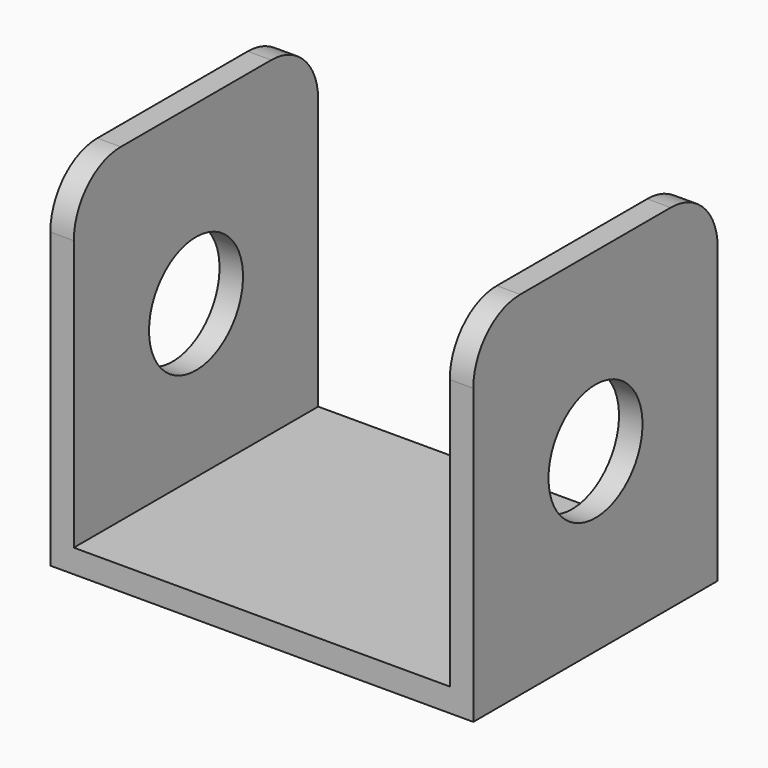
from build123d import *

# Parameters (mm, degrees)
F0_W     = 32
F0_H     = 26
F0_W_2   = 2
F1_DEPTH = 2
F2_DEPTH = 28
F3_R     = 5
F4_DEPTH = 50
F5_R     = 5


with BuildPart() as f1:
    # F0 (on Top) → F1 (new body)
    with BuildSketch(Plane.XY):
        Rectangle(F0_W, F0_H)
        with Locations((-17, 0)):
            Rectangle(F0_W_2, F0_H)
        with Locations((17, 0)):
            Rectangle(F0_W_2, F0_H)
    extrude(amount=-F1_DEPTH)

    # F0 (on Top) → F2 (join)
    with BuildSketch(Plane.XY):
        with Locations((17, 0)):
            Rectangle(F0_W_2, F0_H)
        with Locations((-17, 0)):
            Rectangle(F0_W_2, F0_H)
    extrude(amount=F2_DEPTH)

    # F3 (on face) → F4 (cut)
    with BuildSketch(Plane(origin=(-18, 0, 0), x_dir=(0, -1, 0), z_dir=(-1, 0, 0))):
        with Locations((0, 13)):
            Circle(F3_R)
    extrude(amount=-F4_DEPTH, mode=Mode.SUBTRACT)

    # F5
    f5_edges = [f1.edges().sort_by_distance(p)[0] for p in [
        (-17, 13, 28),
        (17, 13, 28),
        (17, -13, 28),
        (-17, -13, 28),
    ]]
    fillet(f5_edges, radius=F5_R)


solid = f1.part
